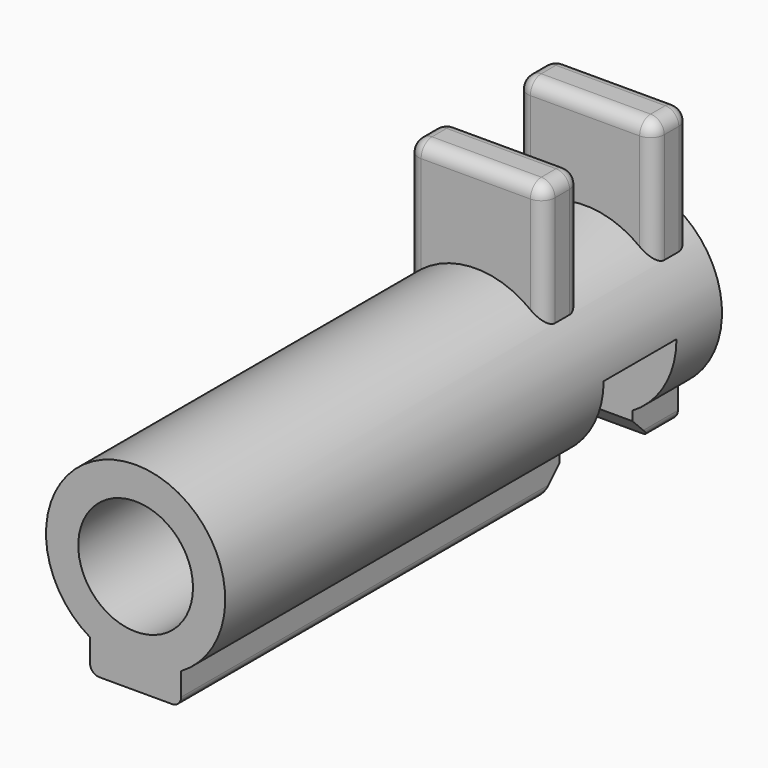
from build123d import *

# Parameters (mm, degrees)
F1_R          = 5
F2_DEPTH      = 34.64052
F3_W          = 5.08
F3_H          = 2.89434
F4_DEPTH      = 34.64052
F6_W          = 10.16
F6_H          = 5.08
F7_DEPTH      = 25.4
F8_W          = 2.54
F8_H          = 7.62
F9_DEPTH      = 3.81
F9_DEPTH_BACK = 3.81
F5_R          = 3.2004
F10_DEPTH     = 31.75
F11_R         = 0.762
F12_SIZE      = 1.27
F13_R         = 0.508


with BuildPart() as f2:
    # F1 (on Front) → F2 (new body)
    with BuildSketch(Plane.XZ):
        Circle(F1_R)
    extrude(amount=-F2_DEPTH)

    # F3 (on face) → F4 (join, through all)
    with BuildSketch(Plane.XZ):
        with Locations((0, -4.64757)):
            Rectangle(F3_W, F3_H)
    extrude(amount=-F4_DEPTH)

    # F6 (on Top) → F7 (cut)
    with BuildSketch(Plane.XY):
        with Locations((0, 28.92552)):
            Rectangle(F6_W, F6_H)
    extrude(amount=-F7_DEPTH, mode=Mode.SUBTRACT)

    # F8 (on Right) → F9 (join, two sides)
    with BuildSketch(Plane.YZ) as f9_sk:
        with Locations((32.60852, 6.35)):
            Rectangle(F8_W, F8_H)
        with Locations((24.98852, 6.35)):
            Rectangle(F8_W, F8_H)
    extrude(amount=F9_DEPTH)
    extrude(f9_sk.sketch, amount=-F9_DEPTH_BACK)

    # F5 (on face) → F10 (cut)
    with BuildSketch(Plane.XZ):
        Circle(F5_R)
    extrude(amount=-F10_DEPTH, mode=Mode.SUBTRACT)

    # F11
    f11_edges = [f2.edges().sort_by_distance(p)[0] for p in [
        (0, 26.25852, 10.16),
        (0, 31.33852, 10.16),
        (0, 33.87852, 10.16),
        (0, 23.71852, 10.16),
        (-3.81, 26.25852, 6.698943),
        (-3.81, 23.71852, 6.698943),
        (-3.81, 24.98852, 10.16),
        (-3.81, 31.33852, 6.698943),
        (-3.81, 32.60852, 10.16),
        (-3.81, 33.87852, 6.698943),
        (3.81, 24.98852, 10.16),
        (3.81, 26.25852, 6.698943),
        (3.81, 23.71852, 6.698943),
        (3.81, 31.33852, 6.698943),
        (3.81, 32.60852, 10.16),
        (3.81, 33.87852, 6.698943),
    ]]
    fillet(f11_edges, radius=F11_R)

    # F12
    f12_edges = [f2.edges().sort_by_distance(p)[0] for p in [
        (0, 26.38552, -6.09474),
        (0, 31.46552, -6.09474),
    ]]
    chamfer(f12_edges, length=F12_SIZE)

    # F13
    f13_edges = [f2.edges().sort_by_distance(p)[0] for p in [
        (-2.54, 12.55776, -6.09474),
        (-2.54, 33.68802, -6.09474),
        (2.54, 33.68802, -6.09474),
        (2.54, 12.55776, -6.09474),
    ]]
    fillet(f13_edges, radius=F13_R)


solid = f2.part
